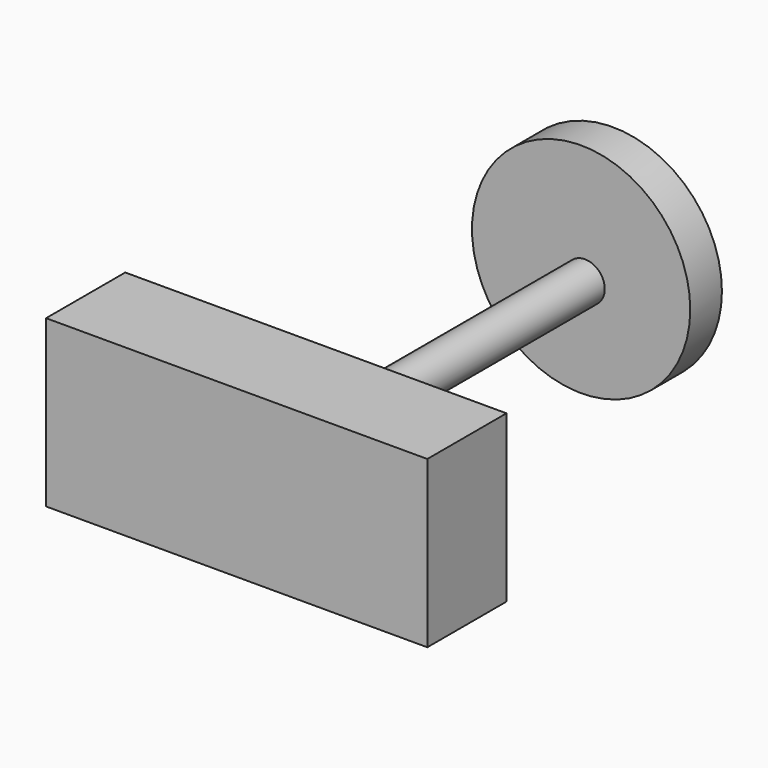
from build123d import *

# Parameters (mm, degrees)
F0_R     = 27.577165
F1_DEPTH = 10
F2_R     = 5
F3_DEPTH = 95
F4_W     = 96.332805
F4_H     = 41.888617
F5_DEPTH = 25


with BuildPart() as f1:
    # F0 (on Front) → F1 (new body)
    with BuildSketch(Plane.XZ):
        with Locations((-28.350001, 23.400001)):
            Circle(F0_R)
    extrude(amount=F1_DEPTH)

    # F2 (on Front) → F3 (join)
    with BuildSketch(Plane.XZ):
        with Locations((-27.377238, 20.944308)):
            Circle(F2_R)
    extrude(amount=F3_DEPTH)

    # F4 (on face) → F5 (join)
    with BuildSketch(Plane.XZ.offset(95)):
        with Locations((-27.377238, 20.944308)):
            Rectangle(F4_W, F4_H)
    extrude(amount=F5_DEPTH)


solid = f1.part
